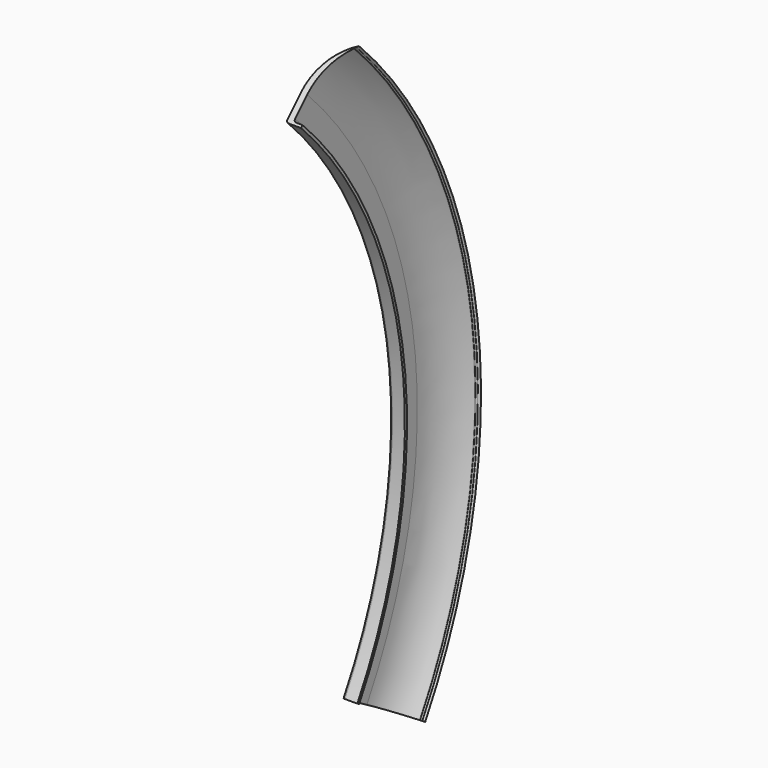
from build123d import *

# Parameters (mm, degrees)
F1_ANGLE_BACK = 30
F1_ANGLE      = 75
F2_R          = 3
F3_R          = 3


with BuildPart() as f1:
    # F0 (on Top) → F1 (revolve)
    with BuildSketch(Plane.XY, mode=Mode.PRIVATE) as f1_sk:
        with BuildLine():
            ThreePointArc((24.5736017823, 111.5037277341), (0.2955596523, 87.4353562361), (-8.600258129, 54.4266564399))
            Line((-8.600258129, 54.4266564399), (-8.600258129, 24.4266564399))
            Line((-8.600258129, 24.4266564399), (8.399741871, 24.4266564399))
            Line((8.399741871, 24.4266564399), (8.399741871, 27.4266564399))
            Line((8.399741871, 27.4266564399), (-1.600258129, 27.4266564399))
            Line((-1.600258129, 27.4266564399), (-1.600258129, 54.4266564399))
            ThreePointArc((-1.600258129, 54.4266564399), (4.1886480826, 83.1872765912), (20.6537842751, 107.4686273932))
            Line((20.6537842751, 107.4686273932), (21.2201206089, 108.0516198232))
            ThreePointArc((21.2201206089, 108.0516198232), (21.6429306698, 109.0350473427), (22.6136930287, 109.4861775637))
            Line((22.6136930287, 109.4861775637), (24.5736017823, 111.5037277341))
        make_face()
    revolve(f1_sk.sketch.rotate(Axis((5.6419791654, -475.5733435601, 0), (1, 0, 0)), -F1_ANGLE_BACK), axis=Axis((5.6419791654, -475.5733435601, 0), (1, 0, 0)), revolution_arc=F1_ANGLE)

    # F2
    f2_edges = [f1.edges().sort_by_distance(p)[0] for p in [
        (-8.600258, 20.149087, 65.263096),
    ]]
    fillet(f2_edges, radius=F2_R)

    # F3
    f3_edges = [f1.edges().sort_by_distance(p)[0] for p in [
        (-1.600258, 23.123422, 65.654675),
    ]]
    fillet(f3_edges, radius=F3_R)


solid = f1.part
